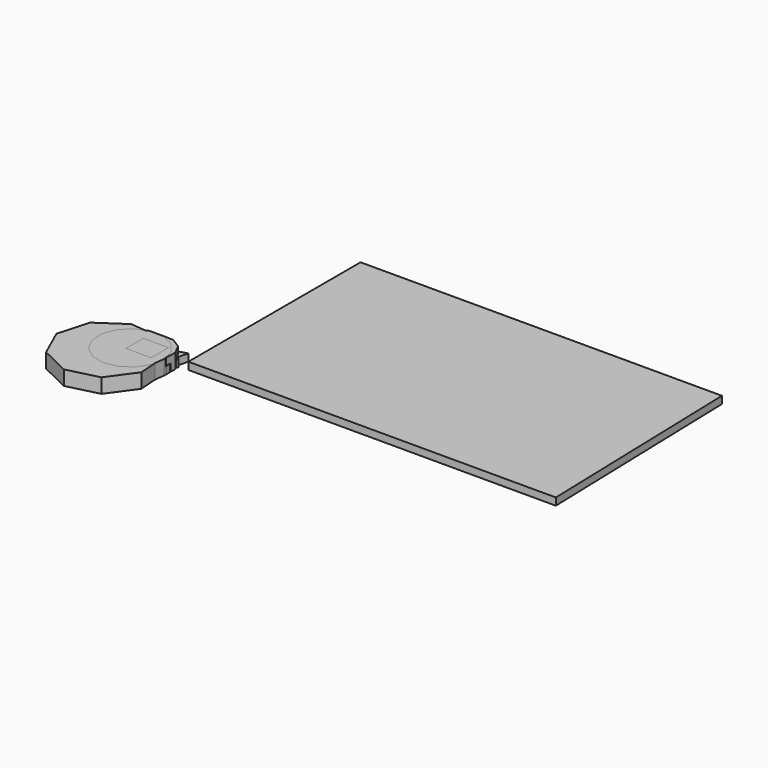
from build123d import *

# Parameters (mm, degrees)
PAD_DEPTH    = 10
PAD001_DEPTH = 10
PAD002_DEPTH = 10
PAD003_DEPTH = 5
PAD004_DEPTH = 5
PAD005_DEPTH = 5
SKETCH006_W  = 17.330512
SKETCH006_H  = 14.988543
PAD006_DEPTH = 10
PAD007_DEPTH = 5
PAD008_DEPTH = 5
PAD009_DEPTH = 5


with BuildPart() as body:
    # Sketch → Pad (new body)
    with BuildSketch(Plane.XY):
        Polygon((18.167238, -26.824047), (31.159077, -8.870737), (29.571237, 13.23329), (14.146687, 29.145313), (-7.897255, 31.41992), (-26.245984, 18.992798), (-32.313925, -2.321266), (-23.261822, -22.549184), (-3.325253, -32.226088), align=None)
    extrude(amount=PAD_DEPTH)


with BuildPart() as body_1:
    # Body placement: moved
    add(body.part.moved(Location((-31.159077, -31.41992, 0))))


with BuildPart() as body001:
    # Sketch001 → Pad001 (new body)
    with BuildSketch(Plane.XY):
        Polygon((-14.146512, 4.385867), (-14.444172, -3.274984), (-10.871528, -10.058305), (-4.385867, -14.146512), (3.274984, -14.444172), (10.058305, -10.871528), (14.146512, -4.385867), (14.444172, 3.274984), (10.871528, 10.058305), (4.385867, 14.146512), (-3.274984, 14.444172), (-10.058305, 10.871528), align=None)
    extrude(amount=PAD001_DEPTH)


with BuildPart() as body001_1:
    # Body001 placement: moved
    add(body001.part.moved(Location((-14.444172, -14.444172, 0))))


with BuildPart() as body002:
    # Sketch002 → Pad002 (new body)
    with BuildSketch(Plane.XY):
        Polygon((5.168737, 19.66088), (-4.125931, 19.882535), (-12.707188, 16.304545), (-19.091257, 9.545577), (-22.174274, 0.774318), (-21.423157, -8.492602), (-16.967783, -16.652849), (-9.578524, -22.29544), (-0.533051, -24.444722), (8.60459, -22.729063), (16.25442, -17.445117), (21.093714, -9.506527), (22.285712, -0.285945), (19.624308, 8.622305), (13.569683, 15.677905), align=None)
    extrude(amount=PAD002_DEPTH)


with BuildPart() as body002_1:
    # Body002 placement: moved
    add(body002.part.moved(Location((-22.285712, -19.882535, 0))))


with BuildPart() as body003:
    # Sketch003 → Pad003 (new body)
    with BuildSketch(Plane.XY):
        Polygon((7.399518, 7.664609), (-10.337505, 2.575866), (2.937987, -10.240475), align=None)
    extrude(amount=PAD003_DEPTH)


with BuildPart() as body003_1:
    # Body003 placement: moved
    add(body003.part.moved(Location((-7.399518, -7.664609, 0))))


with BuildPart() as body004:
    # Sketch004 → Pad004 (new body)
    with BuildSketch(Plane.XY):
        Polygon((0, 10.25955), (-8.885031, -5.129775), (8.885031, -5.129775), align=None)
    extrude(amount=PAD004_DEPTH)


with BuildPart() as body004_1:
    # Body004 placement: moved
    add(body004.part.moved(Location((-8.885031, -10.25955, 0))))


with BuildPart() as body005:
    # Sketch005 → Pad005 (new body)
    with BuildSketch(Plane.XY):
        Polygon((8.917991, 0), (13.337694, 8.722222), (4.077364, 17.140703), (-8.024202, 17.140703), (-17.600224, 1.776977), (-4.762044, -10.850743), (0.920433, -10.850743), align=None)
    extrude(amount=PAD005_DEPTH)


with BuildPart() as body005_1:
    # Body005 placement: moved
    add(body005.part.moved(Location((-13.337694, -17.140703, 0))))


with BuildPart() as body006:
    # Sketch006 → Pad006 (new body)
    with BuildSketch(Plane.XY):
        with Locations((-1.850273, 0.820157)):
            Rectangle(SKETCH006_W, SKETCH006_H)
    extrude(amount=PAD006_DEPTH)

    # Sketch007 → Pad007 (join)
    with BuildSketch(Plane.XY):
        Polygon((10.019646, 10.457861), (4.573891, 15.162398), (-2.314561, 17.24522), (-9.454634, 16.346186), (-15.611746, 12.620748), (-19.721276, 6.713068), (-21.072648, -0.355362), (-19.432198, -7.362347), (-15.083575, -13.096315), (-8.778695, -16.565812), (-1.60773, -17.170929), (5.189397, -14.807036), (10.437399, -9.882873), (13.22885, -3.24987), (13.081082, 3.945064), align=None)
    extrude(amount=PAD007_DEPTH)


with BuildPart() as body006_1:
    # Body006 placement: moved
    add(body006.part.moved(Location((-13.22885, -17.24522, 0))))


with BuildPart() as body007:
    # Sketch008 → Pad008 (new body)
    with BuildSketch(Plane.XY):
        Polygon((7.007695, -11.784118), (11.767051, -2.863674), (10.374145, 7.150596), (3.361021, 14.433582), (-6.593548, 16.203429), (-15.687253, 11.784118), (-20.446609, 2.863674), (-19.053703, -7.150596), (-12.040579, -14.433582), (-2.086011, -16.203429), align=None)
    extrude(amount=PAD008_DEPTH)


with BuildPart() as body007_1:
    # Body007 placement: moved
    add(body007.part.moved(Location((-11.767051, -16.203429, 0))))


with BuildPart() as board_body:
    # Sketch009 → Pad009 (new body)
    with BuildSketch(Plane.XY):
        Polygon((0, 20.547499), (-247.900177, 20.547499), (-247.900177, -127.148323), (4.227076, -127.148323), align=None)
    extrude(amount=-PAD009_DEPTH)


with BuildPart() as board_body_1:
    # Body008 placement: moved
    add(board_body.part.moved(Location((247.900177, 127.148323, 0))))


solid = Compound([body_1.part, body001_1.part, body002_1.part, body003_1.part, body004_1.part, body005_1.part, body006_1.part, body007_1.part, board_body_1.part])
